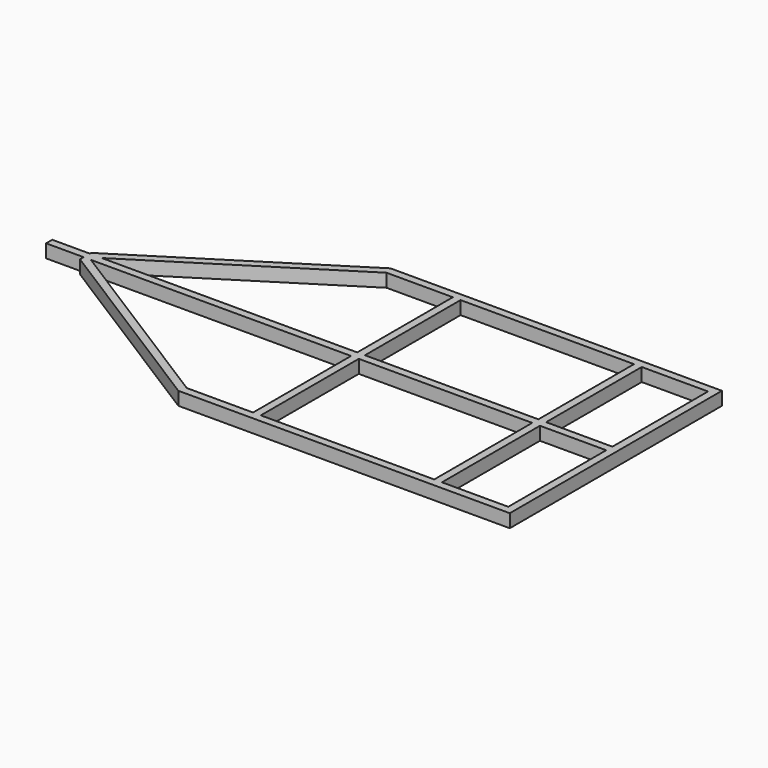
from build123d import *

# Parameters (mm, degrees)
F0_W     = 784.872064
F0_H     = 554.22735
F0_W_2   = 300
F0_H_2   = 540.77265
F1_DEPTH = 60


with BuildPart() as f1:
    # F0 (on Top) → F1 (new body)
    with BuildSketch(Plane.XY):
        Polygon((1186.367794, -601.090265), (1186.367794, 598.909735), (-313.632206, 598.909735), (-1213.632206, 30.444103), (-1213.632206, 23.137085), (-1383.632206, 23.137085), (-1383.632206, -11.862915), (-1213.632206, -11.862915), (-1213.632206, -32.624634), (-313.632206, -601.090265), align=None)
        Polygon((-3.50427, -566.090265), (-303.50427, -566.090265), (-1180.962091, -11.862915), (-3.50427, -11.862915), align=None, mode=Mode.SUBTRACT)
        with Locations((423.931762, -288.97659)):
            Rectangle(F0_W, F0_H, mode=Mode.SUBTRACT)
        with Locations((1001.367794, -288.97659)):
            Rectangle(F0_W_2, F0_H, mode=Mode.SUBTRACT)
        Polygon((-1159.660487, 23.137085), (-303.50427, 563.909735), (-3.50427, 563.909735), (-3.50427, 23.137085), align=None, mode=Mode.SUBTRACT)
        with Locations((423.931762, 293.52341)):
            Rectangle(F0_W, F0_H_2, mode=Mode.SUBTRACT)
        with Locations((1001.367794, 293.52341)):
            Rectangle(F0_W_2, F0_H_2, mode=Mode.SUBTRACT)
    extrude(amount=F1_DEPTH)


solid = f1.part
